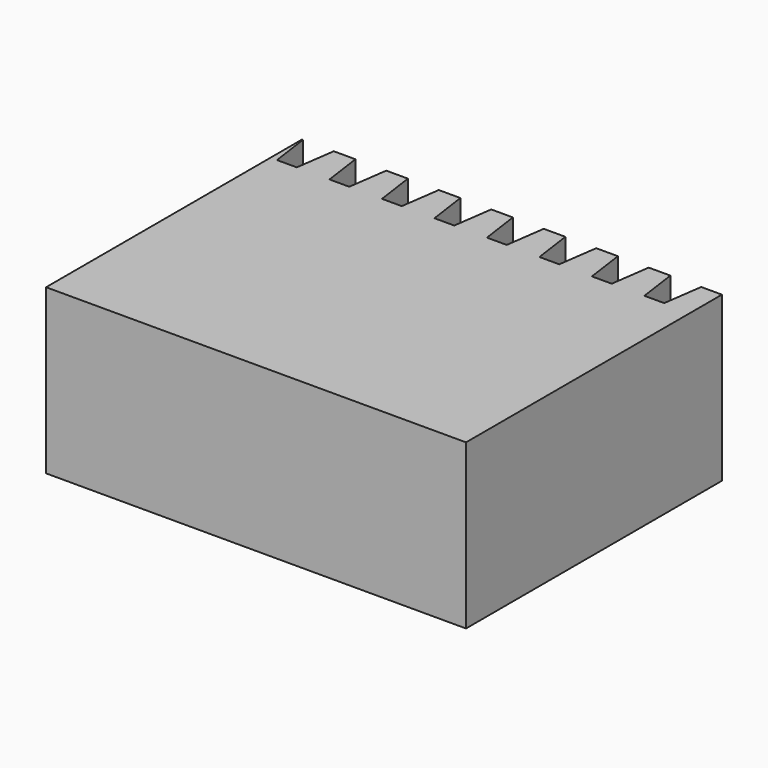
from build123d import *

# Parameters (mm, degrees)
F1_DEPTH = 25


with BuildPart() as f1:
    # F0 (on Top) → F1 (new body)
    with BuildSketch(Plane.XY):
        Polygon((0.140541, -1), (0, -1), (0, -6.884266), (0, -49.799394), (64.060168, -49.799394), (64.060168, -1), (60.899652, -1), (60.056407, -7), (57.036433, -7), (56.193188, -1), (52.892131, -1), (52.048886, -7), (49.028912, -7), (48.185667, -1), (44.88461, -1), (44.041365, -7), (41.021391, -7), (40.178146, -1), (36.877089, -1), (36.033844, -7), (33.01387, -7), (32.170625, -1), (28.869568, -1), (28.026323, -7), (25.006349, -7), (24.163104, -1), (20.862047, -1), (20.018802, -7), (16.998828, -7), (16.155583, -1), (12.854526, -1), (12.011281, -7), (8.991307, -7), (8.148062, -1), (4.847005, -1), (4.00376, -7), (0.983786, -7), align=None)
    extrude(amount=F1_DEPTH)


solid = f1.part
